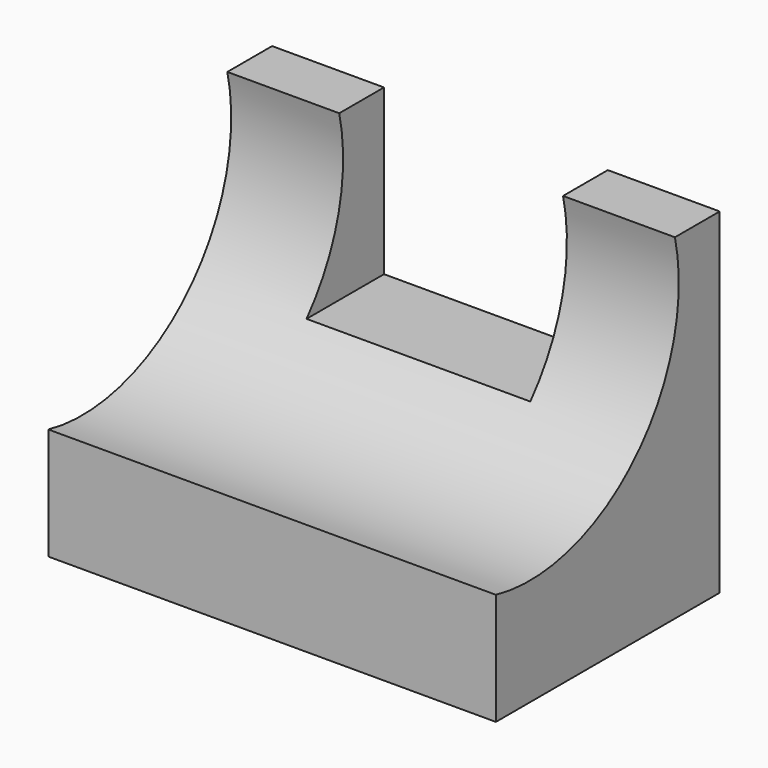
from build123d import *

# Parameters (mm, degrees)
F0_W     = 31.75
F0_H     = 38.1
F1_DEPTH = 50.8
F3_DEPTH = 50.801
F4_W     = 25.4
F4_H     = 18.65923
F5_DEPTH = 25.4


with BuildPart() as f1:
    # F0 (on Right) → F1 (new body)
    with BuildSketch(Plane.YZ):
        with Locations((-43.14976, 19.05)):
            Rectangle(F0_W, F0_H)
    extrude(amount=F1_DEPTH)

    # F2 (on face) → F3 (cut, through all)
    with BuildSketch(Plane.YZ.offset(50.8)):
        with BuildLine():
            Line((-59.02476, 38.1), (-59.02476, 12.7))
            ThreePointArc((-59.02476, 12.7), (-39.27704, 18.35228), (-33.62476, 38.1))
            Line((-33.62476, 38.1), (-59.02476, 38.1))
        make_face()
    extrude(amount=-F3_DEPTH, mode=Mode.SUBTRACT)

    # F4 (on face) → F5 (cut)
    with BuildSketch(Plane(origin=(0, -27.27476, 0), x_dir=(-1, 0, 0), z_dir=(0, 1, 0))):
        with Locations((-25.4, 28.770385)):
            Rectangle(F4_W, F4_H)
    extrude(amount=-F5_DEPTH, mode=Mode.SUBTRACT)


solid = f1.part
